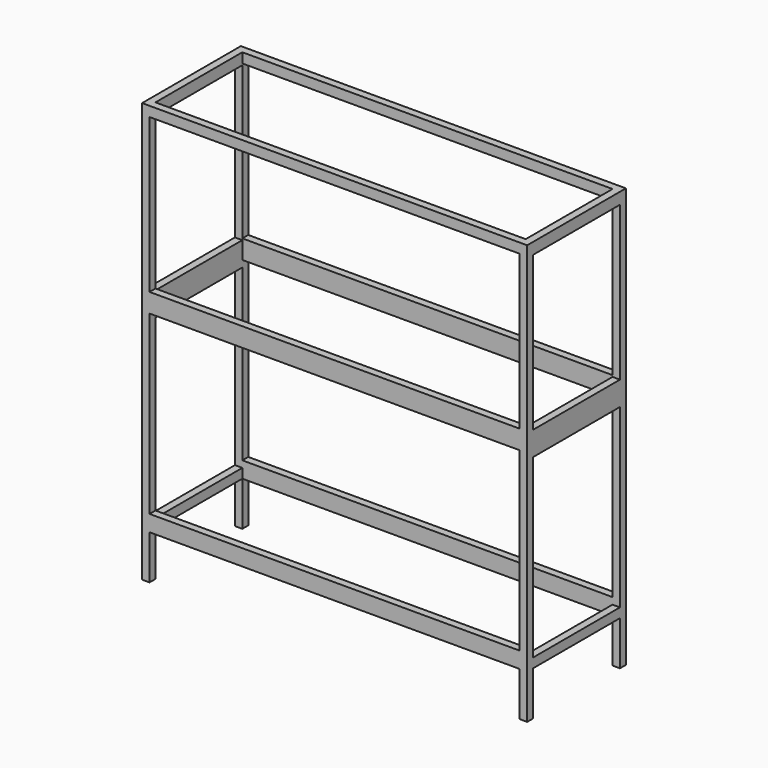
from build123d import *

# Parameters (mm, degrees)
F0_W     = 156
F0_H     = 70
F0_H_2   = 80
F0_H_3   = 20
F1_DEPTH = 50
F2_W     = 150
F2_H     = 17.901978
F2_H_2   = 71.477221
F2_H_3   = 62.391793
F3_DEPTH = 70
F4_W     = 150
F4_H     = 44
F5_DEPTH = 200
F6_W     = 44
F6_H     = 17.90198
F6_H_2   = 71.47722
F6_H_3   = 62.39179
F7_DEPTH = 200


with BuildPart() as f1:
    # F0 (on Front) → F1 (new body)
    with BuildSketch(Plane.XZ):
        with Locations((3.490141, 35)):
            Rectangle(F0_W, F0_H)
        with Locations((3.490141, -40)):
            Rectangle(F0_W, F0_H_2)
        with Locations((3.490141, -90)):
            Rectangle(F0_W, F0_H_3)
    extrude(amount=-F1_DEPTH)

    # F2 (on face) → F3 (cut)
    with BuildSketch(Plane(origin=(0, 50, 0), x_dir=(-1, 0, 0), z_dir=(0, 1, 0))):
        with Locations((-3.490141, -91.049011)):
            Rectangle(F2_W, F2_H)
        with Locations((-3.490141, -39.823143)):
            Rectangle(F2_W, F2_H_2)
        with Locations((-3.490141, 34.804103)):
            Rectangle(F2_W, F2_H_3)
    extrude(amount=-F3_DEPTH, mode=Mode.SUBTRACT)

    # F4 (on face) → F5 (cut)
    with BuildSketch(Plane.XY.offset(70)):
        with Locations((3.490141, 25)):
            Rectangle(F4_W, F4_H)
    extrude(amount=-F5_DEPTH, mode=Mode.SUBTRACT)

    # F6 (on face) → F7 (cut)
    with BuildSketch(Plane.YZ.offset(81.490141)):
        with Locations((25, -91.04901)):
            Rectangle(F6_W, F6_H)
        with Locations((25, -42.506896)):
            Rectangle(F6_W, F6_H_2)
        with Locations((25, 34.174311)):
            Rectangle(F6_W, F6_H_3)
    extrude(amount=-F7_DEPTH, mode=Mode.SUBTRACT)


solid = f1.part
